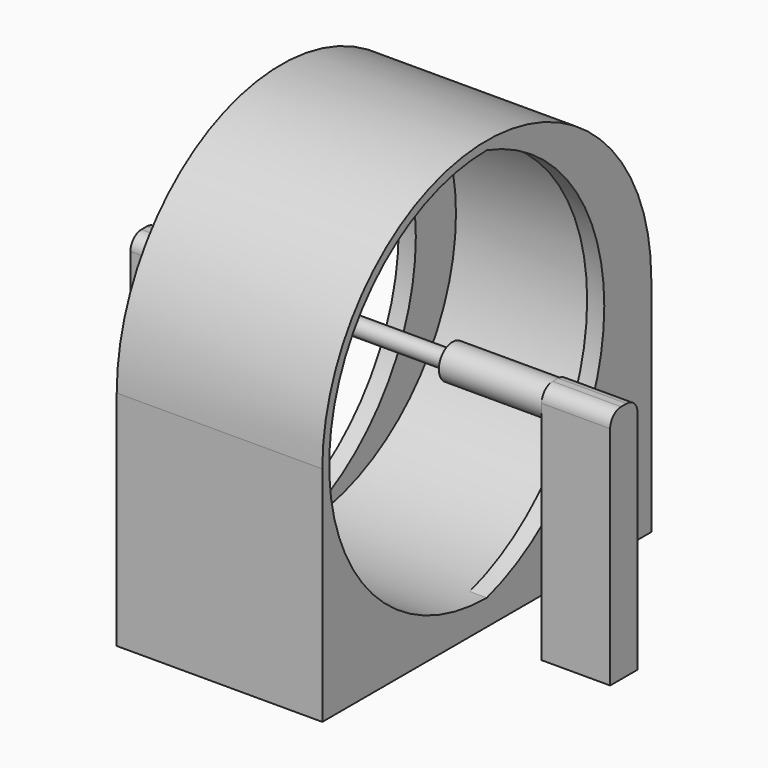
from build123d import *

# Parameters (mm, degrees)
F0_R      = 73.025
F1_DEPTH  = 76.2
F4_DEPTH  = 6.35
F7_DEPTH  = 6.35
F9_R      = 6.35
F10_DEPTH = 63.5
F11_R     = 7.3359072407
F11_R_2   = 3.175
F12_DEPTH = 25.4
F13_DEPTH = 76.2
F14_W     = 12.7
F14_H     = 88.9
F15_DEPTH = 25.4
F16_W     = 12.7
F16_H     = 88.9
F17_DEPTH = 25.4
F18_R     = 5.08


with BuildPart() as f1:
    # F0 (on Right) → F1 (new body)
    with BuildSketch(Plane.YZ):
        with BuildLine():
            ThreePointArc((-76.2, 0), (0, -76.2), (76.2, 0))
            ThreePointArc((76.2, 0), (0, 76.2), (-76.2, 0))
        make_face()
        Circle(F0_R, mode=Mode.SUBTRACT)
    extrude(amount=F1_DEPTH)

    # F3 (on offset) → F4 (join)
    with BuildSketch(Plane.YZ.offset(76.2)):
        with BuildLine():
            ThreePointArc((0, 73.025), (54.4332966437, 0), (0, -73.025))
            ThreePointArc((0, -73.025), (73.025, 0), (0, 73.025))
        make_face()
    extrude(amount=-F4_DEPTH)

    # F6 (on offset) → F7 (join)
    with BuildSketch(Plane(origin=(0, 0, 0), x_dir=(0, -1, 0), z_dir=(-1, 0, 0))):
        with BuildLine():
            ThreePointArc((0, -73.025), (-54.4332966437, 0), (0, 73.025))
            ThreePointArc((0, 73.025), (-73.025, 0), (0, -73.025))
        make_face()
    extrude(amount=-F7_DEPTH)

    # F0 (on Right) → F13 (join)
    with BuildSketch(Plane.YZ):
        with BuildLine():
            Line((76.2, -82.55), (76.2, 0))
            ThreePointArc((76.2, 0), (0, -76.2), (-76.2, 0))
            Line((-76.2, 0), (-76.2, -82.55))
            Line((-76.2, -82.55), (76.2, -82.55))
        make_face()
    extrude(amount=F13_DEPTH)


with BuildPart() as f10:
    # F9 (on offset) → F10 (new body, symmetric)
    with BuildSketch(Plane.YZ.offset(38.1)):
        Circle(F9_R)
    extrude(amount=F10_DEPTH, both=True)

    # F11 (on offset) → F12 (cut, symmetric)
    with BuildSketch(Plane.YZ.offset(38.1)):
        Circle(F11_R)
        Circle(F11_R_2, mode=Mode.SUBTRACT)
    extrude(amount=F12_DEPTH, both=True, mode=Mode.SUBTRACT)

    # F14 (on face) → F15 (join)
    with BuildSketch(Plane(origin=(-25.4, 0, 0), x_dir=(0, -1, 0), z_dir=(-1, 0, 0))):
        with Locations((0, -38.1)):
            Rectangle(F14_W, F14_H)
    extrude(amount=F15_DEPTH)

    # F16 (on face) → F17 (join)
    with BuildSketch(Plane.YZ.offset(101.6)):
        with Locations((0, -38.1)):
            Rectangle(F16_W, F16_H)
    extrude(amount=F17_DEPTH)

    # F18
    f18_edges = [f10.edges().sort_by_distance(p)[0] for p in [
        (-38.1, 6.35, 6.35),
        (-38.1, -6.35, 6.35),
        (114.3, -6.35, 6.35),
        (114.3, 6.35, 6.35),
    ]]
    fillet(f18_edges, radius=F18_R)


solid = Compound([f1.part, f10.part])
